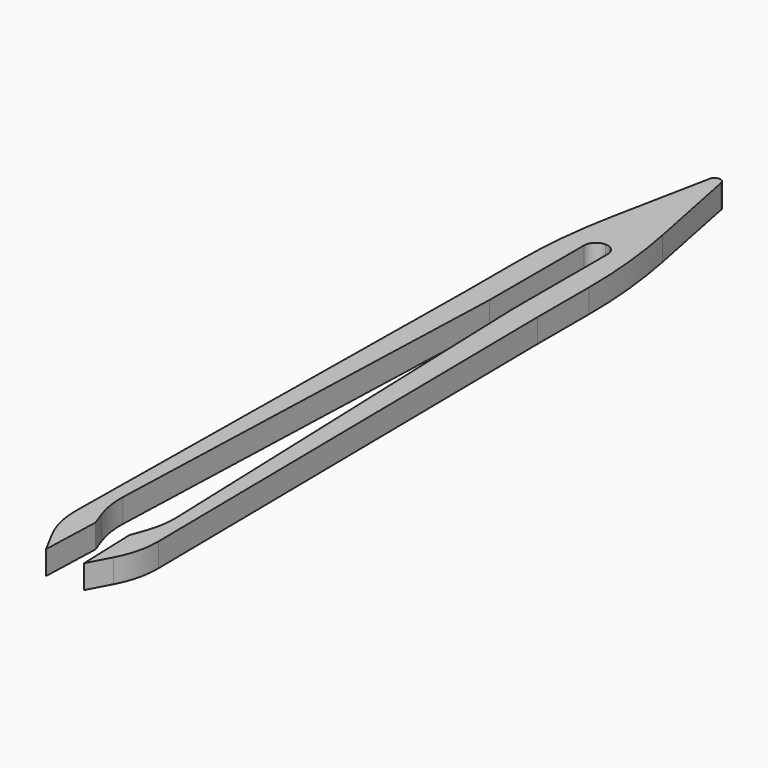
from build123d import *

# Parameters (mm, degrees)
F1_DEPTH = 4
F2_R     = 15
F3_ANGLE = 2
F5_DEPTH = 4
F7_R     = 90


with BuildPart() as f1:
    # F0 (on Top) → F1 (new body)
    with BuildSketch(Plane.XY):
        Polygon((0, -64.8374632001), (0, -54.8374632001), (-2, -49.8374632001), (-2, 27.1625367999), (-6, 27.1625367999), (-4.0681642161, -57.8382376935), align=None)
    extrude(amount=F1_DEPTH)

    # F2
    f2_edges = [f1.edges().sort_by_distance(p)[0] for p in [
        (-4.068164, -57.838238, 2),
        (-2, -49.837463, 2),
    ]]
    fillet(f2_edges, radius=F2_R)


with BuildPart() as f1_1:
    # F3: moved
    add(f1.part.rotate(Axis((-2, 27.1625367999, 2), (0, 0, -1)), F3_ANGLE))

    # F4 (on face) → F5 (join)
    with BuildSketch(Plane(origin=(0, 0, 0), x_dir=(1, 0, 0), z_dir=(0, 0, -1))):
        with BuildLine():
            Line((-2, -47.1625367999), (-2, -27.1625367999))
            Line((-2, -27.1625367999), (-5.9975633081, -27.3021347867))
            Line((-5.9975633081, -27.3021347867), (-5.9975633081, -47.1625367999))
            Line((-5.9975633081, -47.1625367999), (-1, -72.1625367999))
            ThreePointArc((-1, -72.1625367999), (-0.7071067812, -72.8696435811), (0, -73.1625367999))
            Line((0, -73.1625367999), (0, -49.1625367999))
            ThreePointArc((0, -49.1625367999), (-1.4142135624, -48.5767503623), (-2, -47.1625367999))
        make_face()
    extrude(amount=-F5_DEPTH)

    # F6: F1 across plane


with BuildPart() as f1_2:
    add(f1_1.part)
    add(f1_1.part.mirror(Plane.YZ))

    # F7
    f7_edges = [f1_2.edges().sort_by_distance(p)[0] for p in [
        (-5.997563, 47.162537, 2),
        (5.997563, 47.162537, 2),
    ]]
    fillet(f7_edges, radius=F7_R)


solid = f1_2.part
